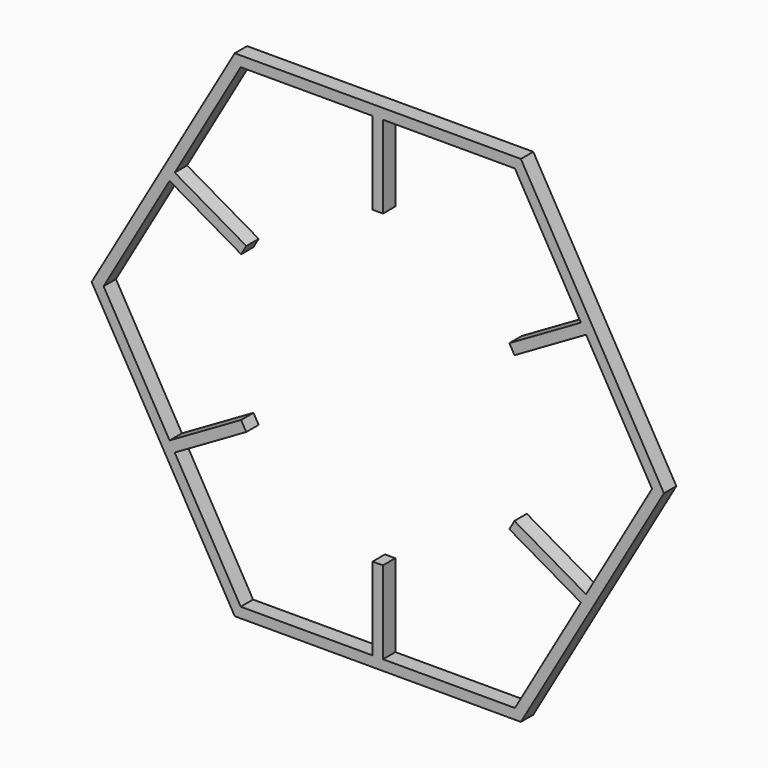
from build123d import *

# Parameters (mm, degrees)
F1_DEPTH = 38.1


with BuildPart() as f1:
    # F0 (on Front) → F1 (new body)
    with BuildSketch(Plane.XZ):
        Polygon((351.952724098, 609.6), (-351.952724098, 609.6), (-703.905448196, 0), (-351.952724098, -609.6), (351.952724098, -609.6), (703.905448196, 0), align=None)
        Polygon((12.7, 584.2), (337.2880272606, 584.2), (499.5820408909, 303.0985226281), (512.2820408909, 281.1014773719), (674.5760545212, 0), (512.2820408909, -281.1014773719), (499.5820408909, -303.0985226281), (337.2880272606, -584.2), (12.7, -584.2), (-12.7, -584.2), (-337.2880272606, -584.2), (-499.5820408909, -303.0985226281), (-512.2820408909, -281.1014773719), (-674.5760545212, 0), (-512.2820408909, 281.1014773719), (-499.5820408909, 303.0985226281), (-449.9381191901, 389.0843173008), (-337.2880272606, 584.2), (-12.7, 584.2), align=None, mode=Mode.SUBTRACT)
        with BuildLine():
            Line((12.7, 380.7882745043), (12.7, 584.2))
            Line((12.7, 584.2), (-12.7, 584.2))
            Line((-12.7, 584.2), (-12.7, 380.7882745043))
            ThreePointArc((-12.7, 380.7882745043), (0, 381), (12.7, 380.7882745043))
        make_face()
        with BuildLine():
            ThreePointArc((-336.122319184, 179.3956146241), (-329.9556788419, 190.5), (-323.422319184, 201.3926598802))
            Line((-323.422319184, 201.3926598802), (-499.5820408909, 303.0985226281))
            Line((-499.5820408909, 303.0985226281), (-512.2820408909, 281.1014773719))
            Line((-512.2820408909, 281.1014773719), (-336.122319184, 179.3956146241))
        make_face()
        with BuildLine():
            Line((512.2820408909, 281.1014773719), (499.5820408909, 303.0985226281))
            Line((499.5820408909, 303.0985226281), (323.422319184, 201.3926598802))
            ThreePointArc((323.422319184, 201.3926598802), (329.9556788419, 190.5), (336.122319184, 179.3956146241))
            Line((336.122319184, 179.3956146241), (512.2820408909, 281.1014773719))
        make_face()
        with BuildLine():
            Line((499.5820408909, -303.0985226281), (512.2820408909, -281.1014773719))
            Line((512.2820408909, -281.1014773719), (336.122319184, -179.3956146241))
            ThreePointArc((336.122319184, -179.3956146241), (329.9556788419, -190.5), (323.422319184, -201.3926598802))
            Line((323.422319184, -201.3926598802), (499.5820408909, -303.0985226281))
        make_face()
        with BuildLine():
            Line((-12.7, -584.2), (12.7, -584.2))
            Line((12.7, -584.2), (12.7, -380.7882745043))
            ThreePointArc((12.7, -380.7882745043), (0, -381), (-12.7, -380.7882745043))
            Line((-12.7, -380.7882745043), (-12.7, -584.2))
        make_face()
        with BuildLine():
            ThreePointArc((-323.422319184, -201.3926598802), (-329.9556788419, -190.5), (-336.122319184, -179.3956146241))
            Line((-336.122319184, -179.3956146241), (-512.2820408909, -281.1014773719))
            Line((-512.2820408909, -281.1014773719), (-499.5820408909, -303.0985226281))
            Line((-499.5820408909, -303.0985226281), (-323.422319184, -201.3926598802))
        make_face()
    extrude(amount=F1_DEPTH)


solid = f1.part
